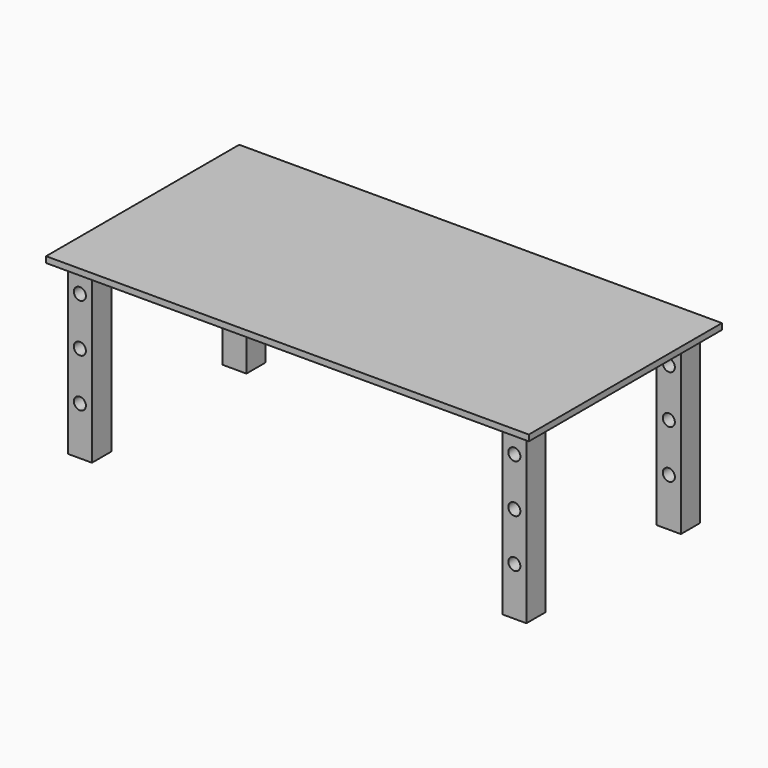
from build123d import *

# Parameters (mm, degrees)
F0_W     = 2000
F0_H     = 1000.000037
F1_DEPTH = 25
F2_W     = 100
F2_H     = 100
F3_DEPTH = 700
F5_D     = 50
F7_D     = 50


with BuildPart() as f1:
    # F0 (on Top) → F1 (new body)
    with BuildSketch(Plane.XY):
        with Locations((1.715112, -3.64459)):
            Rectangle(F0_W, F0_H)
    extrude(amount=F1_DEPTH)

    # F2 (on face) → F3 (join)
    with BuildSketch(Plane(origin=(0, 0, 0), x_dir=(1, 0, 0), z_dir=(0, 0, -1))):
        with Locations((-898.284888, -396.355429)):
            Rectangle(F2_W, F2_H)
        with Locations((-898.284888, 403.644608)):
            Rectangle(F2_W, F2_H)
        with Locations((901.715112, 403.644608)):
            Rectangle(F2_W, F2_H)
        with Locations((901.715112, -396.355429)):
            Rectangle(F2_W, F2_H)
    extrude(amount=F3_DEPTH)

    # F5 (through all)
    with Locations(Plane.XZ.offset(453.644608)):
        with Locations((-898.284888, -100), (-898.284888, -300), (-898.284888, -500)):
            Hole(F5_D / 2)

    # F7 (through all)
    with Locations(Plane.XZ.offset(453.644608)):
        with Locations((901.715112, -100), (901.715112, -300), (901.715112, -500)):
            Hole(F7_D / 2)


solid = f1.part
